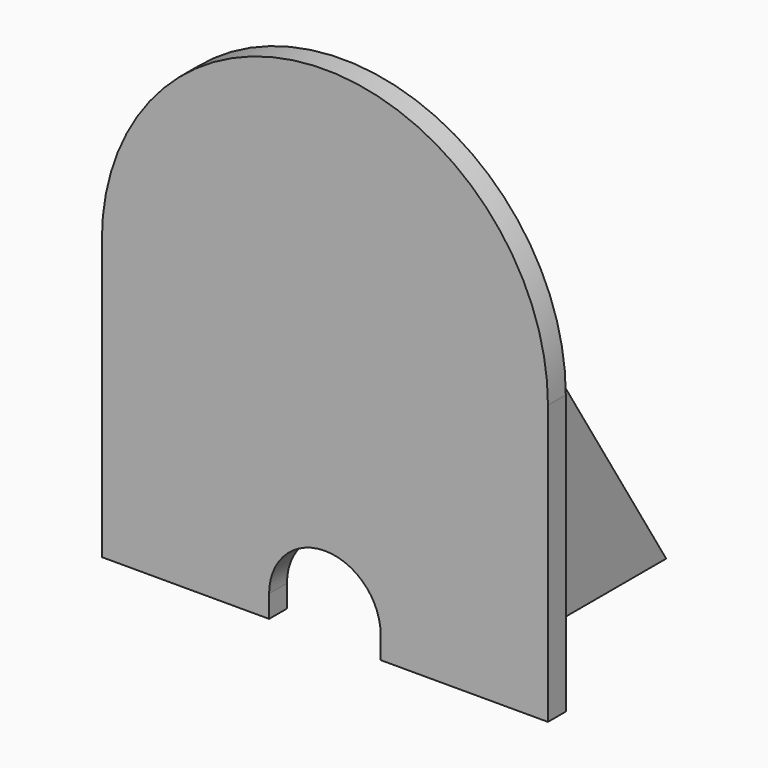
from build123d import *

# Parameters (mm, degrees)
CYLINDER012_R     = 0.9
CYLINDER012_DEPTH = 3.5
BOX039_W          = 5
BOX039_H          = 5
BOX039_DEPTH      = 3.5
PAD013_DEPTH      = 2
CYLINDER021_R     = 20
CYLINDER021_DEPTH = 2
BOX048_W          = 40
BOX048_H          = 2
BOX048_DEPTH      = 20
BOX047_W          = 10
BOX047_H          = 4
BOX047_DEPTH      = 5
CYLINDER020_R     = 5
CYLINDER020_DEPTH = 4
BOX046_W          = 40
BOX046_H          = 2
BOX046_DEPTH      = 45


with BuildPart() as anchorscrew:
    # Cylinder012 → Cylinder012 (new body)
    with BuildSketch(Plane(origin=(2.5, 2.5, 0), x_dir=(1, 0, 0), z_dir=(0, 0, 1))):
        Circle(CYLINDER012_R)
    extrude(amount=CYLINDER012_DEPTH)


with BuildPart() as anchor:
    # Box039 → Box039 (new body)
    with BuildSketch(Plane.XY):
        with Locations((2.5, 2.5)):
            Rectangle(BOX039_W, BOX039_H)
    extrude(amount=BOX039_DEPTH)

    # Cut010: cut AnchorScrew
    add(anchorscrew.part, mode=Mode.SUBTRACT)


with BuildPart() as anchor004:
    # Clone009 base: copy of Anchor
    add(anchor.part)


with BuildPart() as anchor004_1:
    # Clone009 placement: moved
    add(anchor004.part.moved(Location((5, 19.5, 2))))


with BuildPart() as part_mirroring008:
    # Part__Mirroring008: instance of Anchor004
    add(anchor004_1.part.mirror(Plane(origin=(0, 0, 5.5), x_dir=(0, 1, 0), z_dir=(0, 0, 1))))


with BuildPart() as obj1:
    # Sketch024 → Pad013 (new body)
    with BuildSketch(Plane.YZ):
        Polygon((0, 36), (0, 0), (22.5, 0), align=None)
    extrude(amount=PAD013_DEPTH)


with BuildPart() as obj1_1:
    # Body015 placement: moved
    add(obj1.part.moved(Location((3, 9.5, 2))))


with BuildPart() as obj2:
    # Part__Mirroring030: instance of obj1
    add(obj1_1.part.mirror(Plane(origin=(14, 0, 0), x_dir=(0, -1, 0), z_dir=(1, 0, 0))))


with BuildPart() as obj3:
    # Cylinder021 → Cylinder021 (new body)
    with BuildSketch(Plane(origin=(14, 9.5, 27), x_dir=(1, 0, 0), z_dir=(0, -1, 0))):
        Circle(CYLINDER021_R)
    extrude(amount=CYLINDER021_DEPTH)


with BuildPart() as cut026:
    # Box048 → Box048 (new body)
    with BuildSketch(Plane(origin=(-6, 7.5, 27), x_dir=(1, 0, 0), z_dir=(0, 0, 1))):
        with Locations((20, 1)):
            Rectangle(BOX048_W, BOX048_H)
    extrude(amount=BOX048_DEPTH)

    # Cut026: cut obj3
    add(obj3.part, mode=Mode.SUBTRACT)


with BuildPart() as obj4:
    # Box047 → Box047 (new body)
    with BuildSketch(Plane(origin=(9, 6.5, -1), x_dir=(1, 0, 0), z_dir=(0, 0, 1))):
        with Locations((5, 2)):
            Rectangle(BOX047_W, BOX047_H)
    extrude(amount=BOX047_DEPTH)


with BuildPart() as obj5:
    # Cylinder020 → Cylinder020 (new body)
    with BuildSketch(Plane(origin=(14, 10.5, 4), x_dir=(1, 0, 0), z_dir=(0, -1, 0))):
        Circle(CYLINDER020_R)
    extrude(amount=CYLINDER020_DEPTH)


with BuildPart() as cut027:
    # Box046 → Box046 (new body)
    with BuildSketch(Plane(origin=(-6, 7.5, 2), x_dir=(1, 0, 0), z_dir=(0, 0, 1))):
        with Locations((20, 1)):
            Rectangle(BOX046_W, BOX046_H)
    extrude(amount=BOX046_DEPTH)

    # Cut024: cut obj5
    add(obj5.part, mode=Mode.SUBTRACT)

    # Cut025: cut obj4
    add(obj4.part, mode=Mode.SUBTRACT)

    # Cut027: cut Cut026
    add(cut026.part, mode=Mode.SUBTRACT)


with BuildPart() as anchor005:
    # Clone010 base: copy of Anchor
    add(anchor.part)


with BuildPart() as anchor005_1:
    # Clone010 placement: moved
    add(anchor005.part.moved(Location((25, 9.5, 2))))


with BuildPart() as bluetoothcradle:
    # Part__Mirroring009: instance of Anchor005
    add(anchor005_1.part.mirror(Plane(origin=(0, 0, 5.5), x_dir=(0, 1, 0), z_dir=(0, 0, 1))))

    # Fusion006: union Part__Mirroring008, obj2, Cut027
    add(part_mirroring008.part)
    add(obj2.part)
    add(cut027.part)


solid = bluetoothcradle.part
